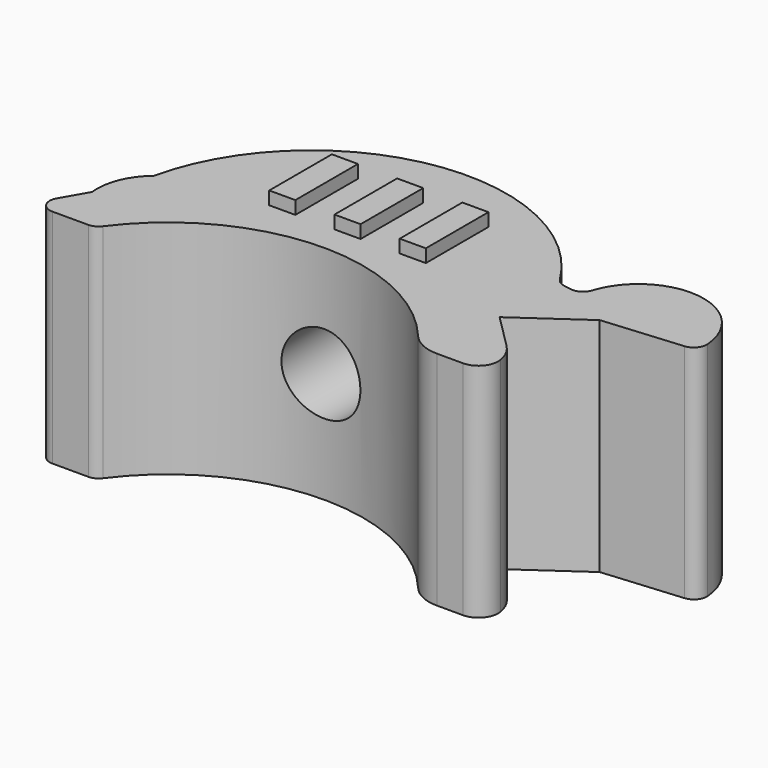
from build123d import *

# Parameters (mm, degrees)
SKETCH001_W                          = 2
SKETCH001_H                          = 6
EXTRUDE002_DEPTH                     = 1
SKETCH002_AS_DRAWN_R                 = 3.025
EXTRUDE001_DEPTH                     = 100
EXTRUDE001_ONTO_SKETCH002_ROLL_ANGLE = 90
EXTRUDE_DEPTH                        = 17
FILLET_R                             = 1
FILLET001_R                          = 3
FILLET002_R                          = 1.5


with BuildPart() as extrude002:
    # Sketch001 → Extrude002 (new body)
    with BuildSketch(Plane.XY.offset(17)):
        with Locations((16.997575, 23.384003)):
            Rectangle(SKETCH001_W, SKETCH001_H)
        with Locations((21.997575, 23.384003)):
            Rectangle(SKETCH001_W, SKETCH001_H)
        with Locations((26.997575, 23.384003)):
            Rectangle(SKETCH001_W, SKETCH001_H)
    extrude(amount=EXTRUDE002_DEPTH)


with BuildPart() as extrude001:
    # Sketch002 as drawn → Extrude001 (new)
    with BuildSketch(Plane.XY):
        with Locations((22, 8.5)):
            Circle(SKETCH002_AS_DRAWN_R)
    extrude(amount=-EXTRUDE001_DEPTH)


with BuildPart() as extrude001_1:
    # Extrude001 onto Sketch002 roll: moved
    add(extrude001.part.rotate(Axis((0, 0, 0), (1, 0, 0)), EXTRUDE001_ONTO_SKETCH002_ROLL_ANGLE))


with BuildPart() as extrude001_2:
    # Extrude001 onto Sketch002 placement: moved
    add(extrude001_1.part)


with BuildPart() as fusion:
    # Sketch → Extrude (new body)
    with BuildSketch(Plane.XY):
        with BuildLine():
            Line((4.638368, 11.639512), (9.638368, 11.639512))
            ThreePointArc((34.356782, 11.639512), (21.997575, 18.139512), (9.638368, 11.639512))
            Line((34.356782, 11.639512), (39.356782, 11.639512))
            Line((39.356782, 11.639512), (39.356782, 14.139512))
            Line((39.356782, 14.139512), (35.821248, 17.675046))
            Line((35.821248, 17.675046), (40.736161, 21.116505))
            Line((40.736161, 21.116505), (47.709524, 21.726595))
            ThreePointArc((47.709524, 21.726595), (43.383687, 27.276008), (37.792049, 23.004892))
            Line((37.792049, 23.004892), (35.822433, 23.352189))
            ThreePointArc((35.822433, 23.352189), (20.558831, 30.621918), (8.221554, 19.062589))
            ThreePointArc((8.221554, 19.062589), (6.928179, 17.283763), (6.638368, 15.103614))
            Line((4.638368, 11.639512), (6.638368, 15.103614))
        make_face()
    extrude(amount=EXTRUDE_DEPTH)

    # Fillet
    fillet_edges = [fusion.edges().sort_by_distance(p)[0] for p in [
        (4.638368, 11.639512, 8.5),
        (9.638368, 11.639512, 8.5),
        (47.709524, 21.726595, 8.5),
        (37.792049, 23.004892, 8.5),
        (35.822433, 23.352189, 8.5),
    ]]
    fillet(fillet_edges, radius=FILLET_R)

    # Fillet001
    fillet001_edges = [fusion.edges().sort_by_distance(p)[0] for p in [
        (34.356782, 11.639512, 8.5),
        (39.356782, 14.139512, 8.5),
    ]]
    fillet(fillet001_edges, radius=FILLET001_R)

    # Fillet002
    fillet002_edges = [fusion.edges().sort_by_distance(p)[0] for p in [
        (39.356782, 11.639512, 8.5),
    ]]
    fillet(fillet002_edges, radius=FILLET002_R)

    # Cut: cut Extrude001
    add(extrude001_2.part, mode=Mode.SUBTRACT)

    # Fusion: union Extrude002
    add(extrude002.part)


solid = fusion.part
